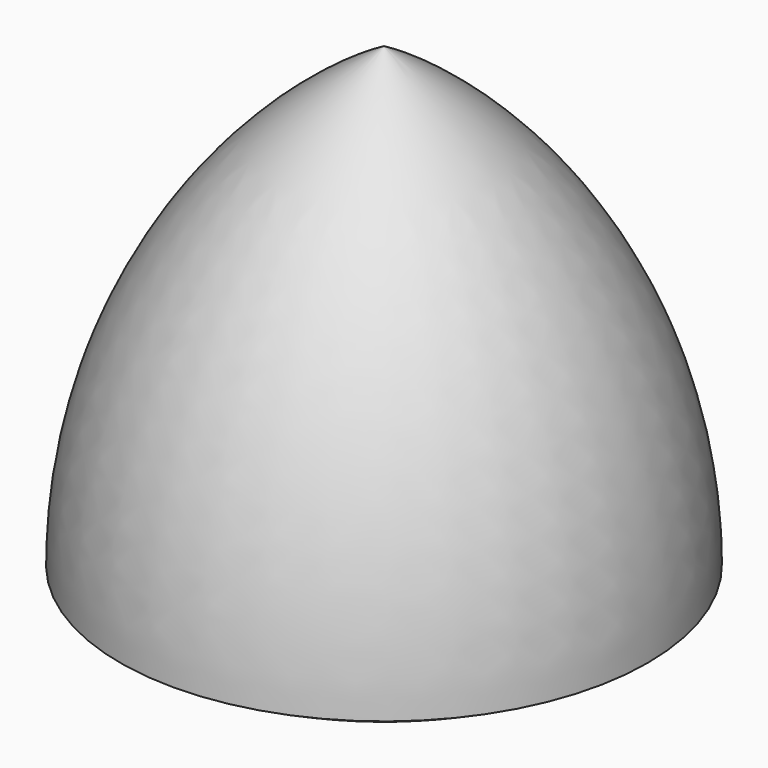
from build123d import *


with BuildPart() as f1:
    # F0 (on Front) → F1 (revolve)
    with BuildSketch(Plane.XZ):
        with BuildLine():
            Line((0, 28.8675134595), (25, -14.4337567297))
            ThreePointArc((25, -14.4337567297), (18.3012701892, 10.5662432703), (0, 28.8675134595))
        make_face()
        with BuildLine():
            ThreePointArc((0, -21.1324865405), (12.9409522551, -19.428777855), (25, -14.4337567297))
            Line((25, -14.4337567297), (0, -14.4337567297))
            Line((0, -14.4337567297), (0, -21.1324865405))
        make_face()
        Polygon((0, -14.4337567297), (25, -14.4337567297), (0, 28.8675134595), align=None)
    revolve(axis=Axis((0, 0, 3.801509738), (0, 0, -1)))


solid = f1.part
